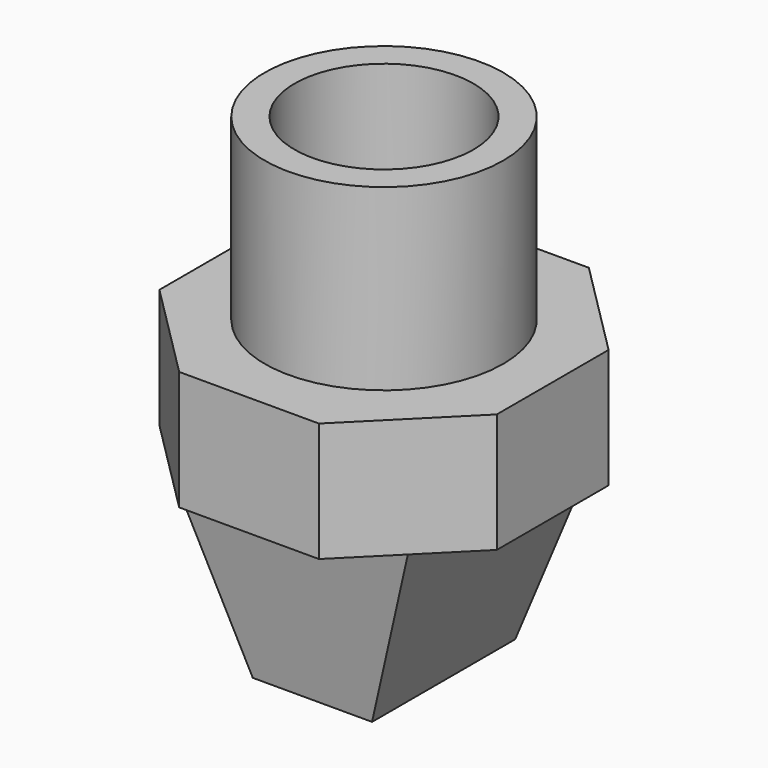
from build123d import *

# Parameters (mm, degrees)
F0_W      = 12.7
F0_H      = 12.7
F1_DEPTH  = 25.4
F3_DEPTH  = 12.701
F5_DEPTH  = 12.701
F6_W      = 6.35
F6_H      = 9.525
F6_W_2    = 4.318
F6_H_2    = 7.493
F7_DEPTH  = 25.401
F9_DEPTH  = 15.875
F10_R     = 6.35
F11_DEPTH = 9.525
F12_R     = 6.35
F12_R_2   = 4.7625
F13_DEPTH = 12.7
F14_R     = 4.7625
F14_W     = 4.318
F14_H     = 7.493
F15_DEPTH = 12.7


with BuildPart() as f1:
    # F0 (on Top) → F1 (new body)
    with BuildSketch(Plane.XY):
        with Locations((6.35, 6.35)):
            Rectangle(F0_W, F0_H)
    extrude(amount=F1_DEPTH)

    # F2 (on face) → F3 (cut, through all)
    with BuildSketch(Plane.XZ):
        Polygon((0, 0), (3.175, 0), (0, 9.525), align=None)
        Polygon((12.7, 0), (12.7, 9.525), (9.525, 0), align=None)
    extrude(amount=-F3_DEPTH, mode=Mode.SUBTRACT)

    # F4 (on face) → F5 (cut, through all)
    with BuildSketch(Plane(origin=(0, 0, 0), x_dir=(0, -1, 0), z_dir=(-1, 0, 0))):
        Polygon((-11.1125, 0), (-12.7, 9.525), (-12.7, 0), align=None)
        Polygon((0, 0), (0, 9.525), (-1.5875, 0), align=None)
    extrude(amount=-F5_DEPTH, mode=Mode.SUBTRACT)

    # F6 (on face) → F7 (cut, through all)
    with BuildSketch(Plane(origin=(0, 0, 0), x_dir=(1, 0, 0), z_dir=(0, 0, -1))):
        with Locations((6.35, -6.35)):
            Rectangle(F6_W, F6_H)
        with Locations((6.35, -6.35)):
            Rectangle(F6_W_2, F6_H_2, mode=Mode.SUBTRACT)
    extrude(amount=-F7_DEPTH, mode=Mode.SUBTRACT)

    # F8 (on face) → F9 (join)
    with BuildSketch(Plane.XY.offset(25.4)):
        Polygon((0, 0), (0, 12.7), (-2.6302561211, 10.0697438789), (-2.6302561211, 2.6302561211), align=None)
        Polygon((10.0697438789, 15.3302561211), (2.6302561211, 15.3302561211), (0, 12.7), (12.7, 12.7), align=None)
        Polygon((15.3302561211, 10.0697438789), (12.7, 12.7), (12.7, 0), (15.3302561211, 2.6302561211), align=None)
        Polygon((12.7, 0), (0, 0), (2.6302561211, -2.6302561211), (10.0697438789, -2.6302561211), align=None)
    extrude(amount=-F9_DEPTH)

    # F10 (on face) → F11 (cut)
    with BuildSketch(Plane.XY.offset(25.4)):
        Polygon((2.6302561211, 15.3302561211), (-2.6302561211, 10.0697438789), (-2.6302561211, 2.6302561211), (2.6302561211, -2.6302561211), (10.0697438789, -2.6302561211), (15.3302561211, 2.6302561211), (15.3302561211, 10.0697438789), (10.0697438789, 15.3302561211), align=None)
        with Locations((6.35, 6.35)):
            Circle(F10_R, mode=Mode.SUBTRACT)
        Polygon((2.6302561211, 15.3302561211), (-2.6302561211, 10.0697438789), (-2.6302561211, 2.6302561211), (2.6302561211, -2.6302561211), (10.0697438789, -2.6302561211), (15.3302561211, 2.6302561211), (15.3302561211, 10.0697438789), (10.0697438789, 15.3302561211), align=None)
        with Locations((6.35, 6.35)):
            Circle(F10_R, mode=Mode.SUBTRACT)
        Polygon((2.6302561211, 15.3302561211), (-2.6302561211, 10.0697438789), (-2.6302561211, 2.6302561211), (2.6302561211, -2.6302561211), (10.0697438789, -2.6302561211), (15.3302561211, 2.6302561211), (15.3302561211, 10.0697438789), (10.0697438789, 15.3302561211), align=None)
        with Locations((6.35, 6.35)):
            Circle(F10_R, mode=Mode.SUBTRACT)
        Polygon((2.6302561211, 15.3302561211), (-2.6302561211, 10.0697438789), (-2.6302561211, 2.6302561211), (2.6302561211, -2.6302561211), (10.0697438789, -2.6302561211), (15.3302561211, 2.6302561211), (15.3302561211, 10.0697438789), (10.0697438789, 15.3302561211), align=None)
        with Locations((6.35, 6.35)):
            Circle(F10_R, mode=Mode.SUBTRACT)
        Polygon((2.6302561211, 15.3302561211), (-2.6302561211, 10.0697438789), (-2.6302561211, 2.6302561211), (2.6302561211, -2.6302561211), (10.0697438789, -2.6302561211), (15.3302561211, 2.6302561211), (15.3302561211, 10.0697438789), (10.0697438789, 15.3302561211), align=None)
        with Locations((6.35, 6.35)):
            Circle(F10_R, mode=Mode.SUBTRACT)
        Polygon((2.6302561211, 15.3302561211), (-2.6302561211, 10.0697438789), (-2.6302561211, 2.6302561211), (2.6302561211, -2.6302561211), (10.0697438789, -2.6302561211), (15.3302561211, 2.6302561211), (15.3302561211, 10.0697438789), (10.0697438789, 15.3302561211), align=None)
        with Locations((6.35, 6.35)):
            Circle(F10_R, mode=Mode.SUBTRACT)
        Polygon((2.6302561211, 15.3302561211), (-2.6302561211, 10.0697438789), (-2.6302561211, 2.6302561211), (2.6302561211, -2.6302561211), (10.0697438789, -2.6302561211), (15.3302561211, 2.6302561211), (15.3302561211, 10.0697438789), (10.0697438789, 15.3302561211), align=None)
        with Locations((6.35, 6.35)):
            Circle(F10_R, mode=Mode.SUBTRACT)
        Polygon((2.6302561211, 15.3302561211), (-2.6302561211, 10.0697438789), (-2.6302561211, 2.6302561211), (2.6302561211, -2.6302561211), (10.0697438789, -2.6302561211), (15.3302561211, 2.6302561211), (15.3302561211, 10.0697438789), (10.0697438789, 15.3302561211), align=None)
        with Locations((6.35, 6.35)):
            Circle(F10_R, mode=Mode.SUBTRACT)
    extrude(amount=-F11_DEPTH, mode=Mode.SUBTRACT)

    # F12 (on face) → F13 (join)
    with BuildSketch(Plane.XY.offset(25.4)):
        with Locations((6.35, 6.35)):
            Circle(F12_R)
        with Locations((6.35, 6.35)):
            Circle(F12_R_2, mode=Mode.SUBTRACT)
    extrude(amount=-F13_DEPTH)

    # F14 (on face) → F15 (cut)
    with BuildSketch(Plane.XY.offset(25.4)):
        with Locations((6.35, 6.35)):
            Circle(F14_R)
        with Locations((6.35, 6.35)):
            Rectangle(F14_W, F14_H, mode=Mode.SUBTRACT)
        with Locations((6.35, 6.35)):
            Rectangle(F14_W, F14_H)
    extrude(amount=-F15_DEPTH, mode=Mode.SUBTRACT)


solid = f1.part
